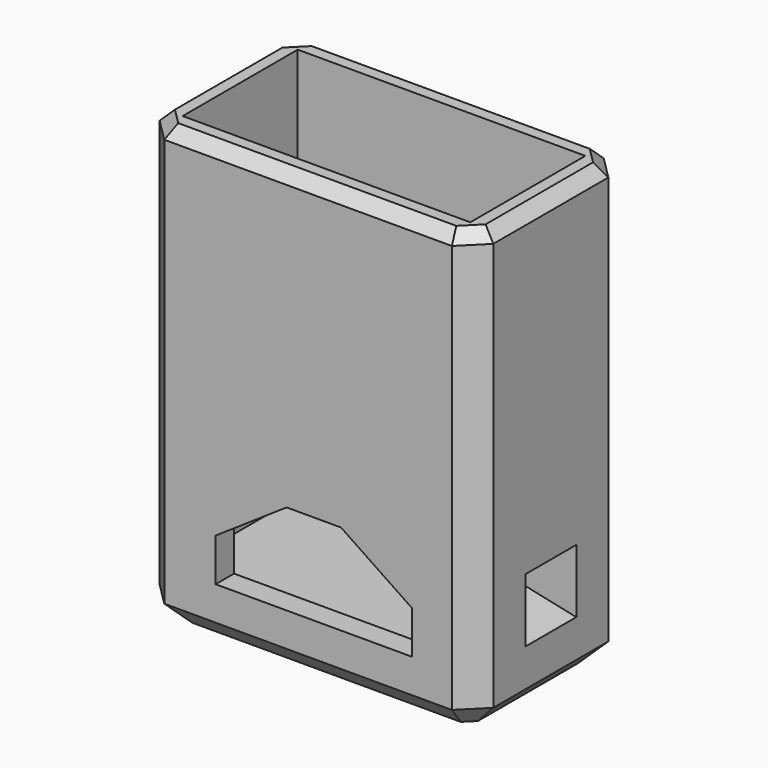
from build123d import *

# Parameters (mm, degrees)
F0_W      = 29
F0_H      = 16.5
F1_DEPTH  = 38.5
F2_T      = -2
F3_DEPTH  = 2.25
F4_SIZE   = 2
F5_SIZE   = 2
F6_SIZE   = 1
F8_DEPTH  = 16.501
F9_W      = 7.54
F9_H      = 7.25
F9_R      = 1.1
F10_DEPTH = 6.35
F13_W     = 5.538
F13_H     = 4.583
F11_W     = 5.538
F11_H     = 5.533


with BuildPart() as f1:
    # F0 (on Top) → F1 (new body)
    with BuildSketch(Plane.XY):
        with Locations((14.5, 8.25)):
            Rectangle(F0_W, F0_H)
    extrude(amount=F1_DEPTH)

    # F2
    f2_openings = [f1.faces().sort_by_distance(p)[0] for p in [
        (14.5, 8.25, 38.5),
    ]]
    offset(amount=F2_T, openings=f2_openings)

    # F3 (add): a face of the model
    f3_faces = [f1.faces().sort_by_distance(p)[0] for p in [
        (14.5, 8.25, 2),
    ]]
    extrude(f3_faces, amount=F3_DEPTH)

    # F4
    f4_edges = [f1.edges().sort_by_distance(p)[0] for p in [
        (29, 0, 19.25),
        (29, 16.5, 19.25),
        (0, 16.5, 19.25),
        (0, 0, 19.25),
    ]]
    chamfer(f4_edges, length=F4_SIZE)

    # F5
    f5_edges = [f1.edges().sort_by_distance(p)[0] for p in [
        (0, 8.25, 0),
        (1, 15.5, 0),
        (1, 1, 0),
        (14.5, 16.5, 0),
        (14.5, 0, 0),
        (28, 15.5, 0),
        (28, 1, 0),
        (29, 8.25, 0),
    ]]
    chamfer(f5_edges, length=F5_SIZE)

    # F6
    f6_edges = [f1.edges().sort_by_distance(p)[0] for p in [
        (0, 8.25, 38.5),
        (1, 1, 38.5),
        (14.5, 0, 38.5),
        (28, 1, 38.5),
        (29, 8.25, 38.5),
        (28, 15.5, 38.5),
        (14.5, 16.5, 38.5),
        (1, 15.5, 38.5),
    ]]
    chamfer(f6_edges, length=F6_SIZE)

    # F7 (on face) → F8 (cut, through all)
    with BuildSketch(Plane.XZ):
        Polygon((23.536, 8.664), (17.365, 12.824), (12.635, 12.824), (6.464, 8.664), (6.464, 4.94), (23.536, 4.94), align=None)
    extrude(amount=-F8_DEPTH, mode=Mode.SUBTRACT)

    # F9 (on face) → F10 (join)
    with BuildSketch(Plane.YZ.offset(29)):
        with Locations((8.25, 7.875)):
            Rectangle(F9_W, F9_H)
        with Locations((8.25, 9)):
            Circle(F9_R, mode=Mode.SUBTRACT)
    extrude(amount=-F10_DEPTH)

    # F13 (on offset) → F14 section 0
    with BuildSketch(Plane.YZ.offset(24.55)):
        with Locations((8.25, 8.5135)):
            Rectangle(F13_W, F13_H)
    # F11 (on face) → F14 section 1
    with BuildSketch(Plane.YZ.offset(29)):
        with Locations((8.25, 8.0385)):
            Rectangle(F11_W, F11_H)
    loft(mode=Mode.SUBTRACT)


solid = f1.part
